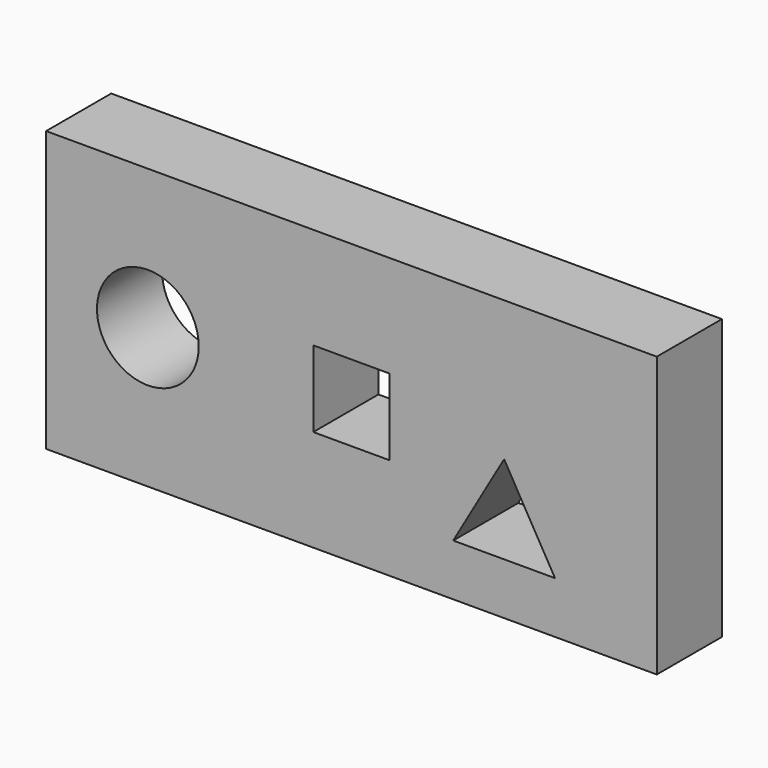
from build123d import *

# Parameters (mm, degrees)
F0_W     = 152.4
F0_H     = 69.830366
F0_R     = 12.7
F0_W_2   = 19.05
F0_H_2   = 19.05
F1_DEPTH = 20.32


with BuildPart() as f1:
    # F0 (on Front) → F1 (new body)
    with BuildSketch(Plane.XZ):
        with Locations((-31.75, 0)):
            Rectangle(F0_W, F0_H)
        Polygon((-6.35, -21.997045), (6.35, 0), (19.05, -21.997045), align=None, mode=Mode.SUBTRACT)
        with Locations((-82.55, 0)):
            Circle(F0_R, mode=Mode.SUBTRACT)
        with Locations((-31.75, 0)):
            Rectangle(F0_W_2, F0_H_2, mode=Mode.SUBTRACT)
    extrude(amount=F1_DEPTH)


solid = f1.part
